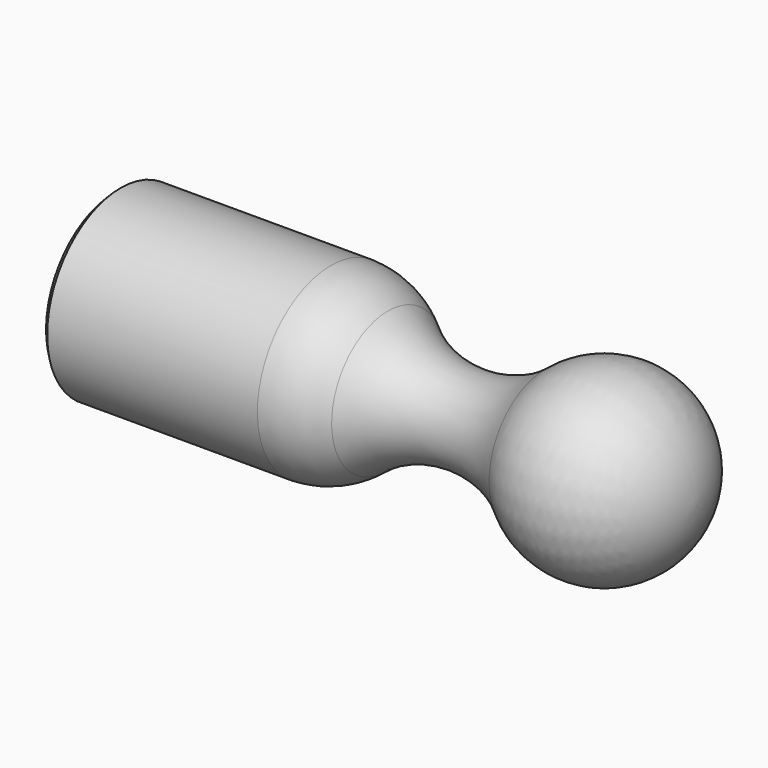
from build123d import *

# Parameters (mm, degrees)
F2_SIZE = 1


with BuildPart() as f1:
    # F0 (on Front) → F1 (revolve)
    with BuildSketch(Plane.XZ):
        with BuildLine():
            Line((-94.952568, 0), (0, 0))
            ThreePointArc((0, 0), (-8.661343, 13.594905), (-24.642857, 11.489791))
            ThreePointArc((-24.642857, 11.489791), (-37.5, 6.809513), (-50.357143, 11.489791))
            ThreePointArc((-50.357143, 11.489791), (-54.715795, 14.038418), (-59.673167, 14.996439))
            Line((-59.673167, 14.996439), (-60.326833, 14.996439))
            Line((-60.326833, 14.996439), (-95, 14.996439))
            Line((-95, 14.996439), (-94.952568, 0))
        make_face()
    revolve(axis=Axis((-47.476284, 0, 0), (-1, 0, 0)))

    # F2
    f2_edges = [f1.edges().sort_by_distance(p)[0] for p in [
        (-95, 0, -14.996439),
    ]]
    chamfer(f2_edges, length=F2_SIZE)


solid = f1.part
